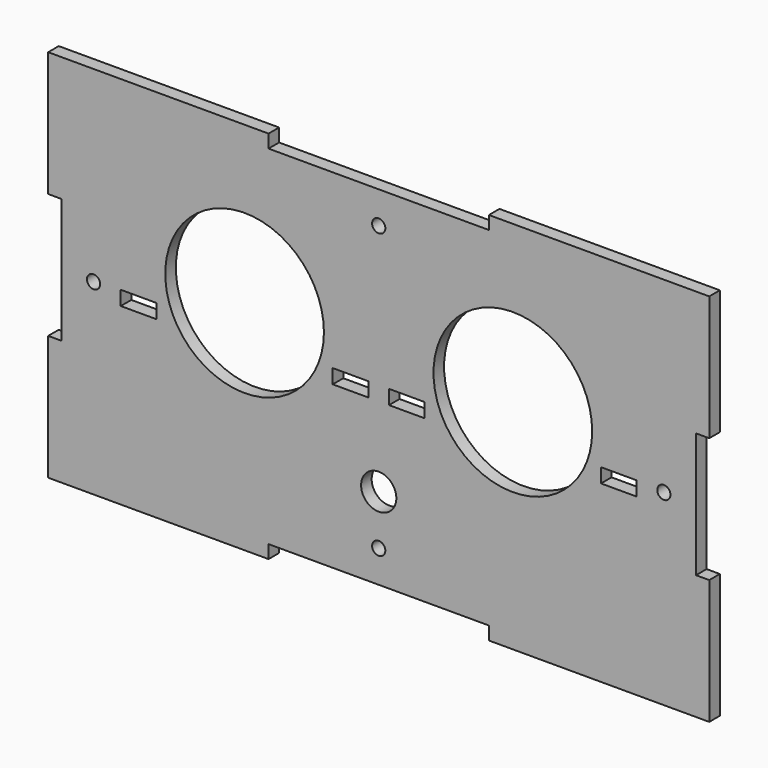
from build123d import *

# Parameters (mm, degrees)
F0_W     = 8.1
F0_H     = 3.25
F0_R     = 1.5
F0_R_2   = 4
F0_R_3   = 18
F1_DEPTH = 3


with BuildPart() as f1:
    # F0 (on Front) → F1 (new body)
    with BuildSketch(Plane.XZ):
        Polygon((-75, -14.166667), (-75, -42.5), (-25, -42.5), (-25, -39.5), (25, -39.5), (25, -42.5), (75, -42.5), (75, -14.166667), (72, -14.166667), (72, 14.166667), (75, 14.166667), (75, 42.5), (25, 42.5), (25, 39.5), (-25, 39.5), (-25, 42.5), (-75, 42.5), (-75, 14.166667), (-72, 14.166667), (-72, -14.166667), align=None)
        Polygon((-58.533333, -2.85), (-58.533333, 0), (-58.533333, 0.4), (-50.433333, 0.4), (-50.433333, -2.85), align=None, mode=Mode.SUBTRACT)
        with Locations((-6.383333, -1.225)):
            Rectangle(F0_W, F0_H, mode=Mode.SUBTRACT)
        with Locations((0, -32.2)):
            Circle(F0_R, mode=Mode.SUBTRACT)
        with Locations((0, -20.9)):
            Circle(F0_R_2, mode=Mode.SUBTRACT)
        with Locations((6.383333, -1.225)):
            Rectangle(F0_W, F0_H, mode=Mode.SUBTRACT)
        with Locations((54.483333, -1.225)):
            Rectangle(F0_W, F0_H, mode=Mode.SUBTRACT)
        with Locations((-64.7, 0)):
            Circle(F0_R, mode=Mode.SUBTRACT)
        with Locations((-30.433333, 6.9)):
            Circle(F0_R_3, mode=Mode.SUBTRACT)
        with Locations((30.433333, 6.9)):
            Circle(F0_R_3, mode=Mode.SUBTRACT)
        with Locations((64.7, 0)):
            Circle(F0_R, mode=Mode.SUBTRACT)
        with Locations((0, 32.2)):
            Circle(F0_R, mode=Mode.SUBTRACT)
    extrude(amount=F1_DEPTH)


with BuildPart() as f2_1:
    # F2: copy of F1
    add(f1.part.moved(Location((0, 60, 0))))


solid = f1.part
